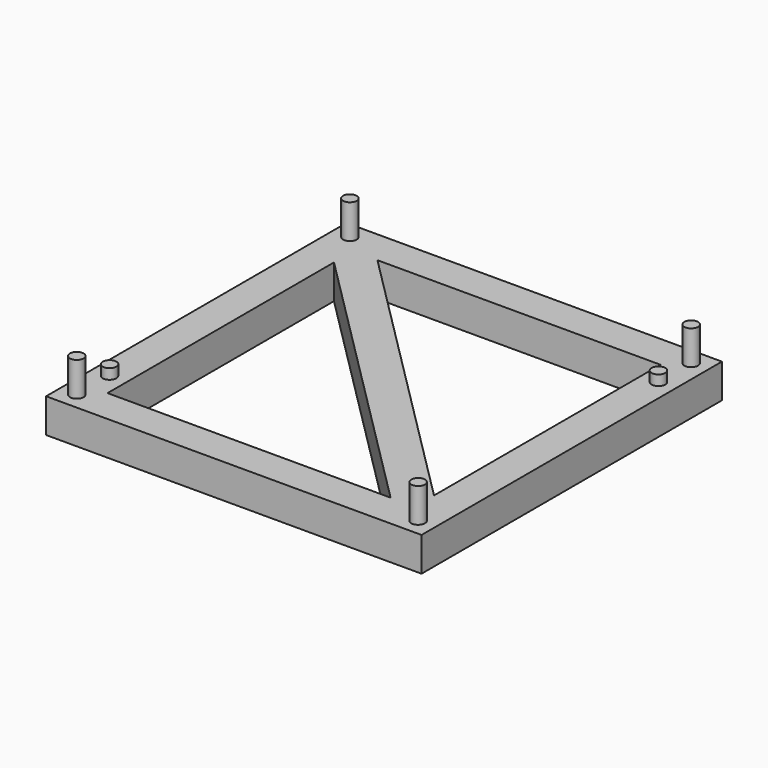
from build123d import *

# Parameters (mm, degrees)
F0_W     = 55
F0_H     = 55
F1_DEPTH = 5
F2_R     = 1
F3_DEPTH = 5
F4_R     = 1
F5_DEPTH = 1.5


with BuildPart() as f1:
    # F0 (on Top) → F1 (new body)
    with BuildSketch(Plane.XY):
        Rectangle(F0_W, F0_H)
        Polygon((18.964466, -22.5), (-22.5, -22.5), (-22.5, 18.964466), align=None, mode=Mode.SUBTRACT)
        Polygon((22.5, -18.964466), (-18.964466, 22.5), (22.5, 22.5), align=None, mode=Mode.SUBTRACT)
    extrude(amount=F1_DEPTH)

    # F2 (on face) → F3 (join)
    with BuildSketch(Plane.XY.offset(5)):
        with Locations((-25, 25)):
            Circle(F2_R)
        with Locations((25, -25)):
            Circle(F2_R)
        with Locations((25, 25)):
            Circle(F2_R)
        with Locations((-25, -25)):
            Circle(F2_R)
    extrude(amount=F3_DEPTH)

    # F4 (on face) → F5 (join)
    with BuildSketch(Plane.XY.offset(5)):
        with Locations((-25, -19)):
            Circle(F4_R)
        with Locations((25, 19)):
            Circle(F4_R)
    extrude(amount=F5_DEPTH)


solid = f1.part
